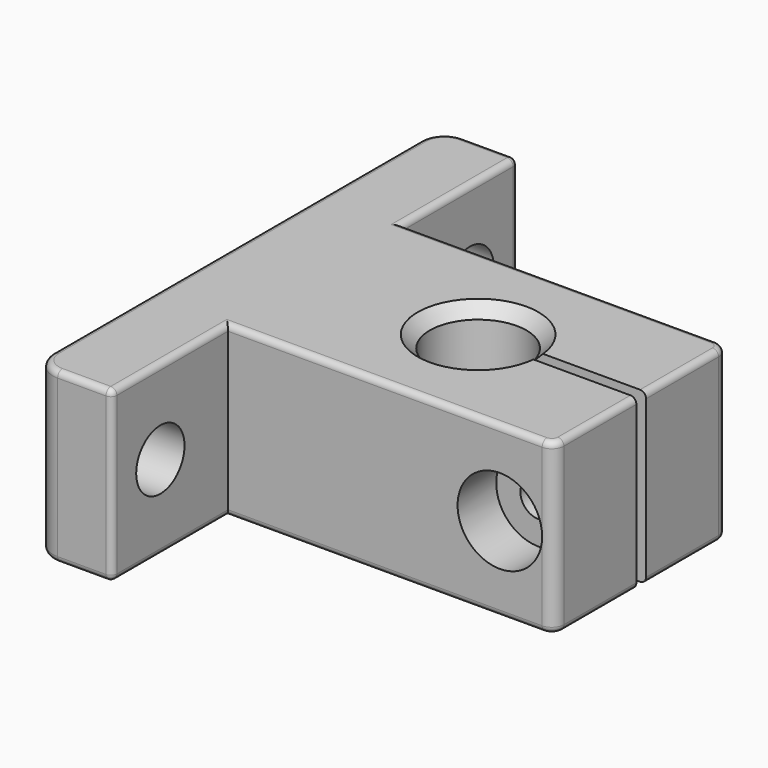
from build123d import *

# Parameters (mm, degrees)
PAD_DEPTH       = 14
SKETCH001_R     = 2.5
POCKET_DEPTH    = 33.501
FILLET_R        = 2
FILLET001_R     = 1
CHAMFER_SIZE    = 1
CHAMFER001_SIZE = 1
SKETCH002_R     = 1.5
POCKET001_DEPTH = 30.001
SKETCH003_R     = 3.5
POCKET002_DEPTH = 4
FILLET002_R     = 0.5


with BuildPart() as part:
    # Sketch → Pad (new body)
    with BuildSketch(Plane.XY):
        with BuildLine():
            Line((-20, -21), (-13.5, -21))
            Line((-13.5, -9), (-13.5, -21))
            Line((-13.5, -9), (13.5, -9))
            Line((13.5, -9), (13.5, -0.5))
            Line((3.968627, -0.5), (13.5, -0.5))
            ThreePointArc((3.968627, 0.5), (-4, 0), (3.968627, -0.5))
            Line((3.968627, 0.5), (13.5, 0.5))
            Line((13.5, 0.5), (13.5, 9))
            Line((13.5, 9), (-13.5, 9))
            Line((-13.5, 9), (-13.5, 21))
            Line((-13.5, 21), (-20, 21))
            Line((-20, 21), (-20, -21))
        make_face()
    extrude(amount=PAD_DEPTH)

    # Sketch001 (on Face6 of Pad) → Pocket (cut, through all)
    with BuildSketch(Plane(origin=(-20, 0, 0), x_dir=(0, -1, 0), z_dir=(-1, 0, 0))):
        with Locations((-16, 7)):
            Circle(SKETCH001_R)
        with Locations((16, 7)):
            Circle(SKETCH001_R)
    extrude(amount=-POCKET_DEPTH, mode=Mode.SUBTRACT)

    # Fillet
    fillet_edges = [part.edges().sort_by_distance(p)[0] for p in [
        (-20, 21, 7),
        (-20, -21, 7),
    ]]
    fillet(fillet_edges, radius=FILLET_R)

    # Fillet001
    fillet001_edges = [part.edges().sort_by_distance(p)[0] for p in [
        (13.5, 9, 7),
        (13.5, -9, 7),
    ]]
    fillet(fillet001_edges, radius=FILLET001_R)

    # Chamfer
    chamfer_edges = [part.edges().sort_by_distance(p)[0] for p in [
        (-4, 0, 14),
    ]]
    chamfer(chamfer_edges, length=CHAMFER_SIZE)

    # Chamfer001
    chamfer001_edges = [part.edges().sort_by_distance(p)[0] for p in [
        (-4, 0, 0),
    ]]
    chamfer(chamfer001_edges, length=CHAMFER001_SIZE)

    # Sketch002 (on Face11 of Chamfer001) → Pocket001 (cut, through all)
    with BuildSketch(Plane(origin=(0, 9, 0), x_dir=(-1, 0, 0), z_dir=(0, 1, 0))):
        with Locations((-9, 7)):
            Circle(SKETCH002_R)
    extrude(amount=-POCKET001_DEPTH, mode=Mode.SUBTRACT)

    # Sketch003 (on Face15 of Pocket001) → Pocket002 (cut)
    with BuildSketch(Plane.XZ.offset(9)):
        with Locations((9, 7)):
            Circle(SKETCH003_R)
    extrude(amount=-POCKET002_DEPTH, mode=Mode.SUBTRACT)

    # Fillet002
    fillet002_edges = [part.edges().sort_by_distance(p)[0] for p in [
        (-0.5, -9, 14),
        (-0.5, -9, 0),
        (-0.5, 9, 14),
        (-0.5, 9, 0),
        (-13.5, -15, 0),
        (-13.5, -15, 14),
        (-13.5, 15, 0),
        (-13.5, -21, 7),
        (-13.5, 21, 7),
        (-13.5, 15, 14),
        (-15.75, 21, 14),
        (-15.75, 21, 0),
        (-15.75, -21, 0),
        (-15.75, -21, 14),
        (13.5, -4.25, 0),
        (13.5, 4.25, 0),
        (13.5, -4.25, 14),
        (13.5, 4.25, 14),
        (13.207107, -8.707107, 14),
        (13.207107, 8.707107, 14),
        (13.207107, 8.707107, 0),
        (13.207107, -8.707107, 0),
    ]]
    fillet(fillet002_edges, radius=FILLET002_R)


solid = part.part
